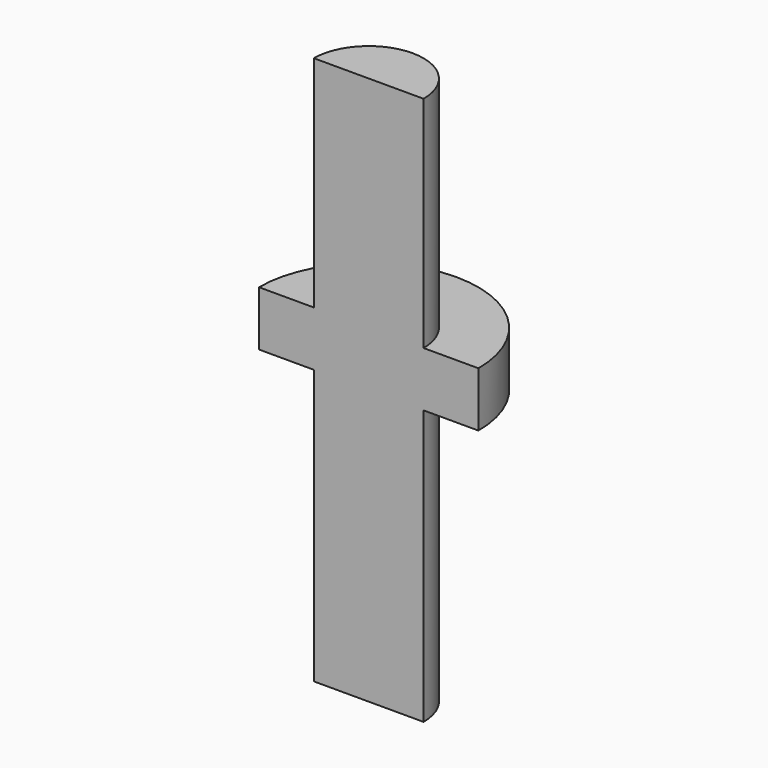
from build123d import *

# Parameters (mm, degrees)
F1_ANGLE = 180


with BuildPart() as f1:
    # F0 (on Front) → F1 (revolve)
    with BuildSketch(Plane.XZ):
        Polygon((0, 50), (-5, 50), (-5, 30), (-10, 30), (-10, 25), (-5, 25), (-5, 0), (0, 0), align=None)
    revolve(axis=Axis((0, 0, 25), (0, 0, -1)), revolution_arc=F1_ANGLE)


solid = f1.part
